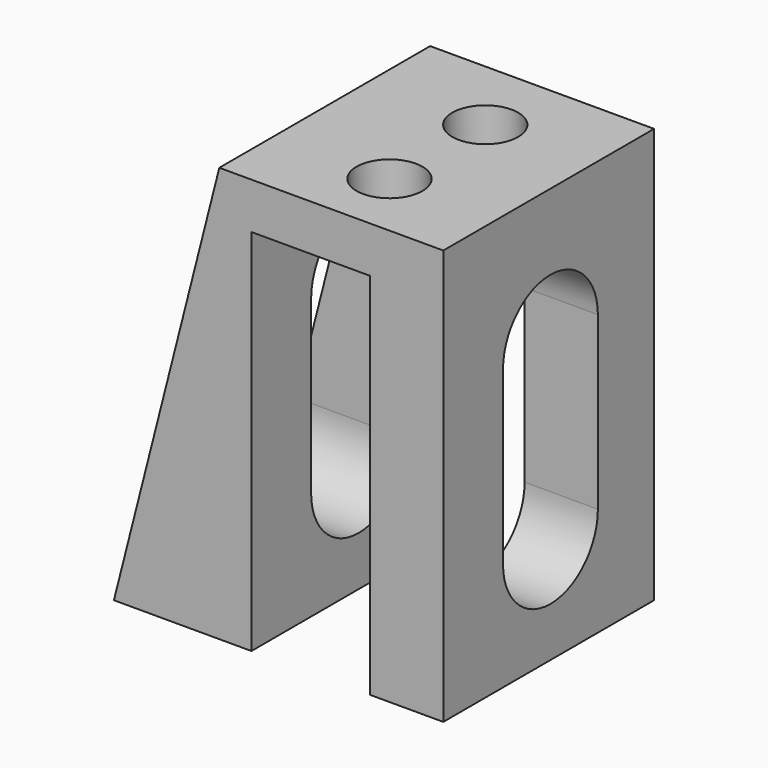
from build123d import *

# Parameters (mm, degrees)
F1_DEPTH = 20
F2_R     = 2.5
F3_DEPTH = 10
F5_W     = 9
F5_H     = 28
F6_DEPTH = 25
F7_W     = 9
F7_H     = 13
F8_DEPTH = 25


with BuildPart() as f1:
    # F0 (on Front) → F1 (new body)
    with BuildSketch(Plane.XZ):
        Polygon((-49.089543, 31.5), (-57.089543, 0), (-32.089543, 0), (-32.089543, 31.5), align=None)
    extrude(amount=F1_DEPTH)

    # F2 (on face) → F3 (cut)
    with BuildSketch(Plane.XY.offset(31.5)):
        with Locations((-40.230012, -5.844655)):
            Circle(F2_R)
        with Locations((-40.32638, -14.806874)):
            Circle(F2_R)
    extrude(amount=-F3_DEPTH, mode=Mode.SUBTRACT)

    # F5 (on face) → F6 (cut)
    with BuildSketch(Plane.XZ.offset(20)):
        with Locations((-42.152388, 14)):
            Rectangle(F5_W, F5_H)
    extrude(amount=-F6_DEPTH, mode=Mode.SUBTRACT)

    # F7 (on face) → F8 (cut)
    with BuildSketch(Plane.YZ.offset(-32.089543)):
        with BuildLine():
            ThreePointArc((-5.334587, 21.249529), (-9.834587, 25.749529), (-14.334587, 21.249529))
            Line((-14.334587, 21.249529), (-5.334587, 21.249529))
        make_face()
        with Locations((-9.834587, 14.749529)):
            Rectangle(F7_W, F7_H)
        with BuildLine():
            Line((-5.334587, 8.249529), (-14.334587, 8.249529))
            ThreePointArc((-14.334587, 8.249529), (-9.834587, 3.749529), (-5.334587, 8.249529))
        make_face()
        with BuildLine():
            ThreePointArc((-5.334587, 21.249529), (-9.834587, 25.749529), (-14.334587, 21.249529))
            Line((-14.334587, 21.249529), (-5.334587, 21.249529))
        make_face()
        with Locations((-9.834587, 14.749529)):
            Rectangle(F7_W, F7_H)
        with BuildLine():
            Line((-5.334587, 8.249529), (-14.334587, 8.249529))
            ThreePointArc((-14.334587, 8.249529), (-9.834587, 3.749529), (-5.334587, 8.249529))
        make_face()
    extrude(amount=-F8_DEPTH, mode=Mode.SUBTRACT)


solid = f1.part
